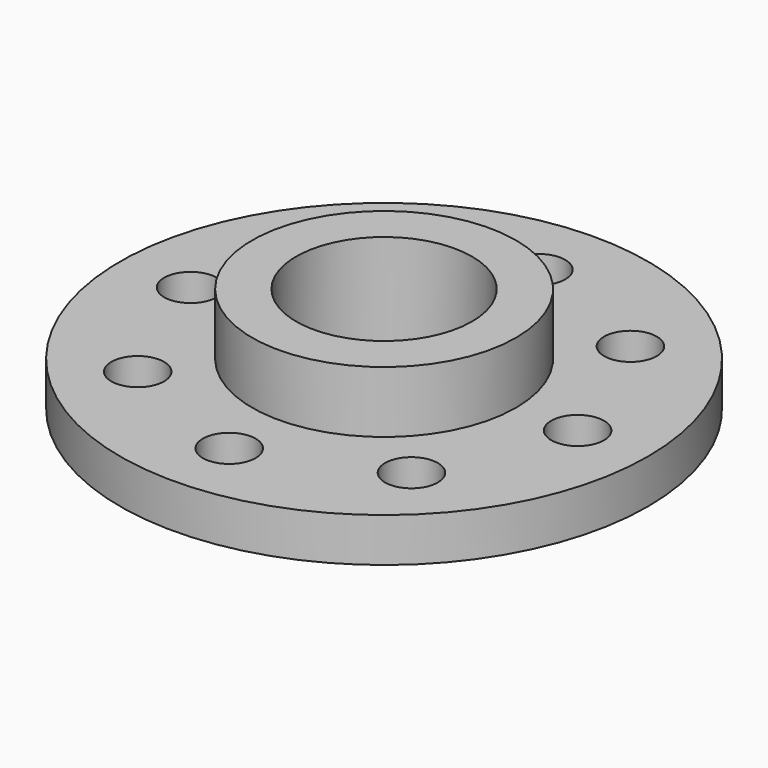
from build123d import *

# Parameters (mm, degrees)
CYLINDER003_R     = 3
CYLINDER003_DEPTH = 10
ARRAY_COUNT       = 8
CYLINDER002_R     = 10
CYLINDER002_DEPTH = 30
CYLINDER_R        = 30
CYLINDER_DEPTH    = 5
CYLINDER001_R     = 15
CYLINDER001_DEPTH = 12


with BuildPart() as array:
    # Cylinder003 → Cylinder003 (new body)
    with BuildSketch(Plane(origin=(22, 0, -1), x_dir=(1, 0, 0), z_dir=(0, 0, 1))):
        Circle(CYLINDER003_R)
    extrude(amount=CYLINDER003_DEPTH)

    # Array: Array ×8 about axis
    array_axis = Axis((0, 0, 0), (0, 0, 1))


with BuildPart() as array_1:
    add(array.part)
    for i in range(1, ARRAY_COUNT):
        add(array.part.rotate(array_axis, i * 360 / ARRAY_COUNT))


with BuildPart() as tub_interior:
    # Cylinder002 → Cylinder002 (new body)
    with BuildSketch(Plane.XY.offset(-2)):
        Circle(CYLINDER002_R)
    extrude(amount=CYLINDER002_DEPTH)


with BuildPart() as base:
    # Cylinder → Cylinder (new body)
    with BuildSketch(Plane.XY):
        Circle(CYLINDER_R)
    extrude(amount=CYLINDER_DEPTH)


with BuildPart() as cut001:
    # Cylinder001 → Cylinder001 (new body)
    with BuildSketch(Plane.XY):
        Circle(CYLINDER001_R)
    extrude(amount=CYLINDER001_DEPTH)

    # Fusion: union Base
    add(base.part)

    # Cut: cut Tub_interior
    add(tub_interior.part, mode=Mode.SUBTRACT)

    # Cut001: cut Array
    add(array_1.part, mode=Mode.SUBTRACT)


solid = cut001.part
